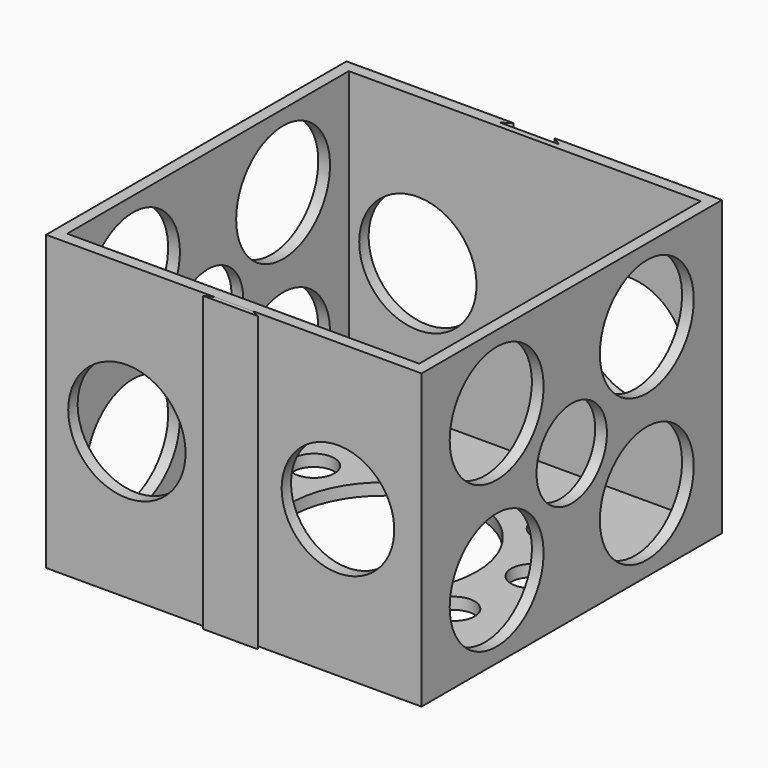
from build123d import *

# Parameters (mm, degrees)
F0_W      = 64
F0_H      = 64
F1_DEPTH  = 50
F2_T      = -2
F4_DEPTH  = 50
F5_DEPTH  = 50
F6_R      = 10
F6_R_2    = 7.5
F7_DEPTH  = 70
F8_R      = 9.600192
F8_R_2    = 10
F9_DEPTH  = 70
F10_R     = 3.5
F10_R_2   = 15.833139
F11_DEPTH = 25


with BuildPart() as f1:
    # F0 (on Top) → F1 (new body)
    with BuildSketch(Plane.XY):
        Rectangle(F0_W, F0_H)
    extrude(amount=F1_DEPTH)

    # F2
    f2_openings = [f1.faces().sort_by_distance(p)[0] for p in [
        (0, 0, 50),
    ]]
    offset(amount=F2_T, openings=f2_openings)

    # F3 (on face) → F4 (cut)
    with BuildSketch(Plane.XY.offset(50)):
        Polygon((0, 32), (-3.5, 32), (-5, 31), (0, 31), (5, 31), (3.5, 32), align=None)
    extrude(amount=-F4_DEPTH, mode=Mode.SUBTRACT)

    # F6 (on face) → F7 (cut)
    with BuildSketch(Plane(origin=(-32, 0, 0), x_dir=(0, -1, 0), z_dir=(-1, 0, 0))):
        with Locations((16, 12.5)):
            Circle(F6_R)
        with Locations((-16, 12.5)):
            Circle(F6_R)
        with Locations((0, 25)):
            Circle(F6_R_2)
        with Locations((16, 37.5)):
            Circle(F6_R)
        with Locations((-16, 37.5)):
            Circle(F6_R)
    extrude(amount=-F7_DEPTH, mode=Mode.SUBTRACT)

    # F8 (on face) → F9 (cut)
    with BuildSketch(Plane(origin=(0, 32, 0), x_dir=(-1, 0, 0), z_dir=(0, 1, 0))):
        with Locations((-17.75, 25)):
            Circle(F8_R)
        with Locations((18.226281, 24.959079)):
            Circle(F8_R_2)
    extrude(amount=-F9_DEPTH, mode=Mode.SUBTRACT)

    # F10 (on face) → F11 (cut)
    with BuildSketch(Plane(origin=(0, 0, 0), x_dir=(1, 0, 0), z_dir=(0, 0, -1))):
        with Locations((-16, 16)):
            Circle(F10_R)
        with Locations((-3.539708, 22.348836)):
            Circle(F10_R)
        with Locations((10.272632, 20.161176)):
            Circle(F10_R)
        with Locations((20.161176, 10.272632)):
            Circle(F10_R)
        with Locations((22.348836, -3.539708)):
            Circle(F10_R)
        with Locations((16, -16)):
            Circle(F10_R)
        with Locations((3.539708, -22.348836)):
            Circle(F10_R)
        with Locations((-10.272632, -20.161176)):
            Circle(F10_R)
        with Locations((-20.161176, -10.272632)):
            Circle(F10_R)
        with Locations((-22.348836, 3.539708)):
            Circle(F10_R)
        Circle(F10_R_2)
    extrude(amount=-F11_DEPTH, mode=Mode.SUBTRACT)


with BuildPart() as f5:
    # F3 (on face) → F5 (new body)
    with BuildSketch(Plane.XY.offset(50)):
        Polygon((3.2, -32), (0, -32), (-3.2, -32), (-4.7, -32.7), (0, -32.7), (4.7, -32.7), align=None)
    extrude(amount=-F5_DEPTH)


solid = Compound([f1.part, f5.part])
